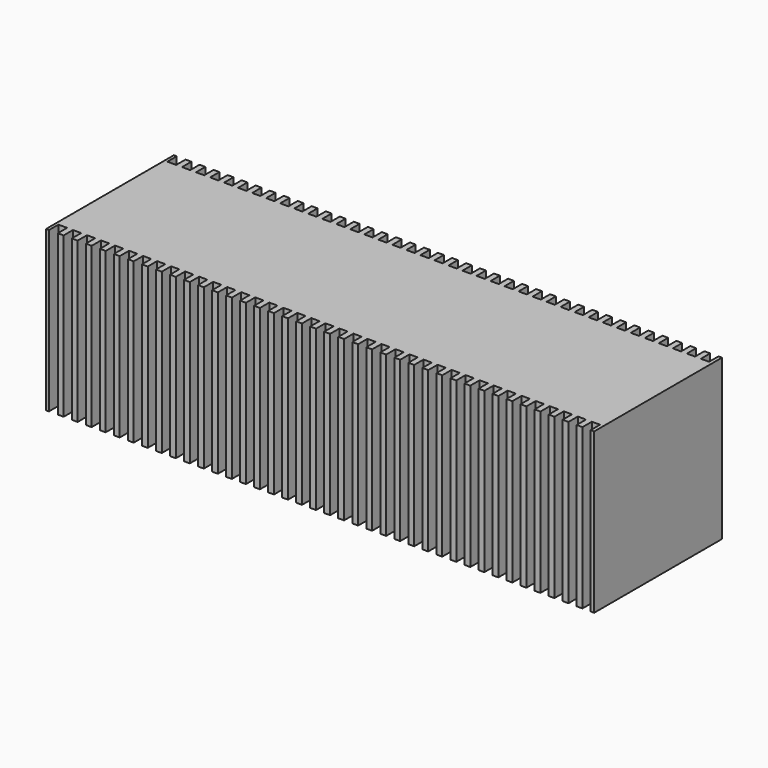
from build123d import *

# Parameters (mm, degrees)
F1_W     = 125
F1_H     = 250
F1_H_2   = 2916
F1_W_2   = 175
F1_W_3   = 187.5
F1_W_4   = 75
F1_W_5   = 62.5
F2_DEPTH = 3416


with BuildPart() as f2:
    # F1 (on face) → F2 (new body)
    with BuildSketch(Plane.XY):
        with Locations((-9088.9609170489, 5784)):
            Rectangle(F1_W, F1_H)
        with Locations((-16288.960917049, 5784)):
            Rectangle(F1_W, F1_H)
        with Locations((-10588.9609170489, 4201)):
            Rectangle(F1_W, F1_H_2)
        with Locations((-19288.960917049, 2618)):
            Rectangle(F1_W, F1_H)
        with Locations((-16438.960917049, 4201)):
            Rectangle(F1_W_2, F1_H_2)
        with Locations((-13588.960917049, 2618)):
            Rectangle(F1_W, F1_H)
        with Locations((-11638.9609170489, 4201)):
            Rectangle(F1_W_2, F1_H_2)
        with Locations((-14788.960917049, 5784)):
            Rectangle(F1_W, F1_H)
        with Locations((-16288.960917049, 2618)):
            Rectangle(F1_W, F1_H)
        with Locations((-18688.960917049, 5784)):
            Rectangle(F1_W, F1_H)
        with Locations((-17188.960917049, 5784)):
            Rectangle(F1_W, F1_H)
        with Locations((-13888.960917049, 2618)):
            Rectangle(F1_W, F1_H)
        with Locations((-18388.960917049, 4201)):
            Rectangle(F1_W, F1_H_2)
        with Locations((-9988.9609170489, 5784)):
            Rectangle(F1_W, F1_H)
        with Locations((-17938.960917049, 4201)):
            Rectangle(F1_W_2, F1_H_2)
        with Locations((-14338.960917049, 4201)):
            Rectangle(F1_W_2, F1_H_2)
        with Locations((-18988.960917049, 5784)):
            Rectangle(F1_W, F1_H)
        with Locations((-16888.960917049, 2618)):
            Rectangle(F1_W, F1_H)
        with Locations((-9088.9609170489, 2618)):
            Rectangle(F1_W, F1_H)
        with Locations((-8788.9609170489, 2618)):
            Rectangle(F1_W, F1_H)
        with Locations((-13138.9609170489, 4201)):
            Rectangle(F1_W_2, F1_H_2)
        with Locations((-15988.960917049, 4201)):
            Rectangle(F1_W, F1_H_2)
        with Locations((-17638.960917049, 4201)):
            Rectangle(F1_W_2, F1_H_2)
        with Locations((-18088.960917049, 4201)):
            Rectangle(F1_W, F1_H_2)
        with Locations((-12688.9609170489, 2618)):
            Rectangle(F1_W, F1_H)
        with Locations((-15988.960917049, 2618)):
            Rectangle(F1_W, F1_H)
        with Locations((-12688.9609170489, 5784)):
            Rectangle(F1_W, F1_H)
        with Locations((-17338.960917049, 4201)):
            Rectangle(F1_W_2, F1_H_2)
        with Locations((-10288.9609170489, 4201)):
            Rectangle(F1_W, F1_H_2)
        with Locations((-11188.9609170489, 4201)):
            Rectangle(F1_W, F1_H_2)
        with Locations((-9988.9609170489, 4201)):
            Rectangle(F1_W, F1_H_2)
        with Locations((-18088.960917049, 5784)):
            Rectangle(F1_W, F1_H)
        with Locations((-18838.960917049, 4201)):
            Rectangle(F1_W_2, F1_H_2)
        with Locations((-16138.960917049, 4201)):
            Rectangle(F1_W_2, F1_H_2)
        with Locations((-13438.9609170489, 4201)):
            Rectangle(F1_W_2, F1_H_2)
        with Locations((-19138.960917049, 4201)):
            Rectangle(F1_W_2, F1_H_2)
        with Locations((-13288.9609170489, 5784)):
            Rectangle(F1_W, F1_H)
        with Locations((-12388.9609170489, 5784)):
            Rectangle(F1_W, F1_H)
        with Locations((-17788.960917049, 5784)):
            Rectangle(F1_W, F1_H)
        with Locations((-16738.960917049, 4201)):
            Rectangle(F1_W_2, F1_H_2)
        with Locations((-12238.9609170489, 4201)):
            Rectangle(F1_W_2, F1_H_2)
        with Locations((-11788.9609170489, 2618)):
            Rectangle(F1_W, F1_H)
        with Locations((-11188.9609170489, 5784)):
            Rectangle(F1_W, F1_H)
        with Locations((-14488.960917049, 2618)):
            Rectangle(F1_W, F1_H)
        with Locations((-19288.960917049, 5784)):
            Rectangle(F1_W, F1_H)
        with Locations((-14188.960917049, 5784)):
            Rectangle(F1_W, F1_H)
        with Locations((-12838.9609170489, 4201)):
            Rectangle(F1_W_2, F1_H_2)
        with Locations((-14788.960917049, 4201)):
            Rectangle(F1_W, F1_H_2)
        with Locations((-9088.9609170489, 4201)):
            Rectangle(F1_W, F1_H_2)
        with Locations((-19588.960917049, 5784)):
            Rectangle(F1_W, F1_H)
        with Locations((-9238.9609170489, 4201)):
            Rectangle(F1_W_2, F1_H_2)
        with Locations((-12388.9609170489, 4201)):
            Rectangle(F1_W, F1_H_2)
        with Locations((-15688.960917049, 2618)):
            Rectangle(F1_W, F1_H)
        with Locations((-10888.9609170489, 4201)):
            Rectangle(F1_W, F1_H_2)
        with Locations((-14188.960917049, 2618)):
            Rectangle(F1_W, F1_H)
        with Locations((-16588.960917049, 4201)):
            Rectangle(F1_W, F1_H_2)
        with Locations((-17788.960917049, 2618)):
            Rectangle(F1_W, F1_H)
        with Locations((-19438.960917049, 4201)):
            Rectangle(F1_W_2, F1_H_2)
        with Locations((-11488.9609170489, 4201)):
            Rectangle(F1_W, F1_H_2)
        with Locations((-13888.960917049, 4201)):
            Rectangle(F1_W, F1_H_2)
        with Locations((-9538.9609170489, 4201)):
            Rectangle(F1_W_2, F1_H_2)
        with Locations((-10588.9609170489, 5784)):
            Rectangle(F1_W, F1_H)
        with Locations((-13738.960917049, 4201)):
            Rectangle(F1_W_2, F1_H_2)
        with Locations((-18238.960917049, 4201)):
            Rectangle(F1_W_2, F1_H_2)
        with Locations((-14188.960917049, 4201)):
            Rectangle(F1_W, F1_H_2)
        with Locations((-10888.9609170489, 2618)):
            Rectangle(F1_W, F1_H)
        with Locations((-12988.9609170489, 2618)):
            Rectangle(F1_W, F1_H)
        with Locations((-14488.960917049, 5784)):
            Rectangle(F1_W, F1_H)
        with Locations((-13588.960917049, 4201)):
            Rectangle(F1_W, F1_H_2)
        with Locations((-10288.9609170489, 5784)):
            Rectangle(F1_W, F1_H)
        with Locations((-19738.960917049, 4201)):
            Rectangle(F1_W_2, F1_H_2)
        with Locations((-12688.9609170489, 4201)):
            Rectangle(F1_W, F1_H_2)
        with Locations((-10288.9609170489, 2618)):
            Rectangle(F1_W, F1_H)
        with Locations((-8788.9609170489, 5784)):
            Rectangle(F1_W, F1_H)
        with Locations((-15538.960917049, 4201)):
            Rectangle(F1_W_2, F1_H_2)
        with Locations((-8788.9609170489, 4201)):
            Rectangle(F1_W, F1_H_2)
        with Locations((-16288.960917049, 4201)):
            Rectangle(F1_W, F1_H_2)
        with Locations((-11488.9609170489, 5784)):
            Rectangle(F1_W, F1_H)
        with Locations((-13288.9609170489, 2618)):
            Rectangle(F1_W, F1_H)
        with Locations((-19588.960917049, 4201)):
            Rectangle(F1_W, F1_H_2)
        with Locations((-12988.9609170489, 4201)):
            Rectangle(F1_W, F1_H_2)
        with Locations((-19588.960917049, 2618)):
            Rectangle(F1_W, F1_H)
        with Locations((-19888.960917049, 5784)):
            Rectangle(F1_W, F1_H)
        with Locations((-14038.960917049, 4201)):
            Rectangle(F1_W_2, F1_H_2)
        with Locations((-11188.9609170489, 2618)):
            Rectangle(F1_W, F1_H)
        with Locations((-11038.9609170489, 4201)):
            Rectangle(F1_W_2, F1_H_2)
        with Locations((-12538.9609170489, 4201)):
            Rectangle(F1_W_2, F1_H_2)
        with Locations((-17488.960917049, 2618)):
            Rectangle(F1_W, F1_H)
        with Locations((-11938.9609170489, 4201)):
            Rectangle(F1_W_2, F1_H_2)
        with Locations((-17488.960917049, 4201)):
            Rectangle(F1_W, F1_H_2)
        with Locations((-11488.9609170489, 2618)):
            Rectangle(F1_W, F1_H)
        with Locations((-8938.9609170489, 4201)):
            Rectangle(F1_W_2, F1_H_2)
        with Locations((-12988.9609170489, 5784)):
            Rectangle(F1_W, F1_H)
        with Locations((-15838.960917049, 4201)):
            Rectangle(F1_W_2, F1_H_2)
        with Locations((-9388.9609170489, 5784)):
            Rectangle(F1_W, F1_H)
        with Locations((-11338.9609170489, 4201)):
            Rectangle(F1_W_2, F1_H_2)
        with Locations((-9688.9609170489, 2618)):
            Rectangle(F1_W, F1_H)
        with Locations((-11788.9609170489, 4201)):
            Rectangle(F1_W, F1_H_2)
        with Locations((-13588.960917049, 5784)):
            Rectangle(F1_W, F1_H)
        with Locations((-17038.960917049, 4201)):
            Rectangle(F1_W_2, F1_H_2)
        with Locations((-15388.960917049, 5784)):
            Rectangle(F1_W, F1_H)
        with Locations((-9388.9609170489, 2618)):
            Rectangle(F1_W, F1_H)
        with Locations((-9688.9609170489, 5784)):
            Rectangle(F1_W, F1_H)
        with Locations((-17188.960917049, 2618)):
            Rectangle(F1_W, F1_H)
        with Locations((-15238.960917049, 4201)):
            Rectangle(F1_W_2, F1_H_2)
        with Locations((-9388.9609170489, 4201)):
            Rectangle(F1_W, F1_H_2)
        with Locations((-15088.960917049, 5784)):
            Rectangle(F1_W, F1_H)
        with Locations((-13288.9609170489, 4201)):
            Rectangle(F1_W, F1_H_2)
        with Locations((-15688.960917049, 5784)):
            Rectangle(F1_W, F1_H)
        with Locations((-18988.960917049, 2618)):
            Rectangle(F1_W, F1_H)
        with Locations((-18388.960917049, 5784)):
            Rectangle(F1_W, F1_H)
        with Locations((-14938.960917049, 4201)):
            Rectangle(F1_W_2, F1_H_2)
        with Locations((-11788.9609170489, 5784)):
            Rectangle(F1_W, F1_H)
        with Locations((-15088.960917049, 4201)):
            Rectangle(F1_W, F1_H_2)
        with Locations((-16588.960917049, 2618)):
            Rectangle(F1_W, F1_H)
        with Locations((-19288.960917049, 4201)):
            Rectangle(F1_W, F1_H_2)
        with Locations((-16888.960917049, 4201)):
            Rectangle(F1_W, F1_H_2)
        with Locations((-17188.960917049, 4201)):
            Rectangle(F1_W, F1_H_2)
        with Locations((-9838.9609170489, 4201)):
            Rectangle(F1_W_2, F1_H_2)
        with Locations((-18388.960917049, 2618)):
            Rectangle(F1_W, F1_H)
        with Locations((-19888.960917049, 4201)):
            Rectangle(F1_W, F1_H_2)
        with Locations((-13888.960917049, 5784)):
            Rectangle(F1_W, F1_H)
        with Locations((-10888.9609170489, 5784)):
            Rectangle(F1_W, F1_H)
        with Locations((-18538.960917049, 4201)):
            Rectangle(F1_W_2, F1_H_2)
        with Locations((-10738.9609170489, 4201)):
            Rectangle(F1_W_2, F1_H_2)
        with Locations((-18688.960917049, 4201)):
            Rectangle(F1_W, F1_H_2)
        with Locations((-15988.960917049, 5784)):
            Rectangle(F1_W, F1_H)
        with Locations((-12088.9609170489, 2618)):
            Rectangle(F1_W, F1_H)
        with Locations((-15088.960917049, 2618)):
            Rectangle(F1_W, F1_H)
        with Locations((-17788.960917049, 4201)):
            Rectangle(F1_W, F1_H_2)
        with Locations((-14488.960917049, 4201)):
            Rectangle(F1_W, F1_H_2)
        with Locations((-19888.960917049, 2618)):
            Rectangle(F1_W, F1_H)
        with Locations((-14788.960917049, 2618)):
            Rectangle(F1_W, F1_H)
        with Locations((-17488.960917049, 5784)):
            Rectangle(F1_W, F1_H)
        with Locations((-18688.960917049, 2618)):
            Rectangle(F1_W, F1_H)
        with Locations((-18988.960917049, 4201)):
            Rectangle(F1_W, F1_H_2)
        with Locations((-10138.9609170489, 4201)):
            Rectangle(F1_W_2, F1_H_2)
        with Locations((-10588.9609170489, 2618)):
            Rectangle(F1_W, F1_H)
        with Locations((-14638.960917049, 4201)):
            Rectangle(F1_W_2, F1_H_2)
        with Locations((-9688.9609170489, 4201)):
            Rectangle(F1_W, F1_H_2)
        with Locations((-8638.9609170489, 4201)):
            Rectangle(F1_W_2, F1_H_2)
        with Locations((-12088.9609170489, 5784)):
            Rectangle(F1_W, F1_H)
        with Locations((-12388.9609170489, 2618)):
            Rectangle(F1_W, F1_H)
        with Locations((-9988.9609170489, 2618)):
            Rectangle(F1_W, F1_H)
        with Locations((-16588.960917049, 5784)):
            Rectangle(F1_W, F1_H)
        with Locations((-15388.960917049, 4201)):
            Rectangle(F1_W, F1_H_2)
        with Locations((-10438.9609170489, 4201)):
            Rectangle(F1_W_2, F1_H_2)
        with Locations((-12088.9609170489, 4201)):
            Rectangle(F1_W, F1_H_2)
        with Locations((-20045.210917049, 4201)):
            Rectangle(F1_W_3, F1_H_2)
        with Locations((-18088.960917049, 2618)):
            Rectangle(F1_W, F1_H)
        with Locations((-15688.960917049, 4201)):
            Rectangle(F1_W, F1_H_2)
        with Locations((-16888.960917049, 5784)):
            Rectangle(F1_W, F1_H)
        with Locations((-15388.960917049, 2618)):
            Rectangle(F1_W, F1_H)
        with Locations((-8513.960917049, 4201)):
            Rectangle(F1_W_4, F1_H_2)
        with Locations((-20170.210917049, 4201)):
            Rectangle(F1_W_5, F1_H_2)
        with Locations((-20170.210917049, 2618)):
            Rectangle(F1_W_5, F1_H)
        with Locations((-8513.960917049, 5784)):
            Rectangle(F1_W_4, F1_H)
        with Locations((-8513.960917049, 2618)):
            Rectangle(F1_W_4, F1_H)
        with Locations((-20170.210917049, 5784)):
            Rectangle(F1_W_5, F1_H)
    extrude(amount=F2_DEPTH)


solid = f2.part
